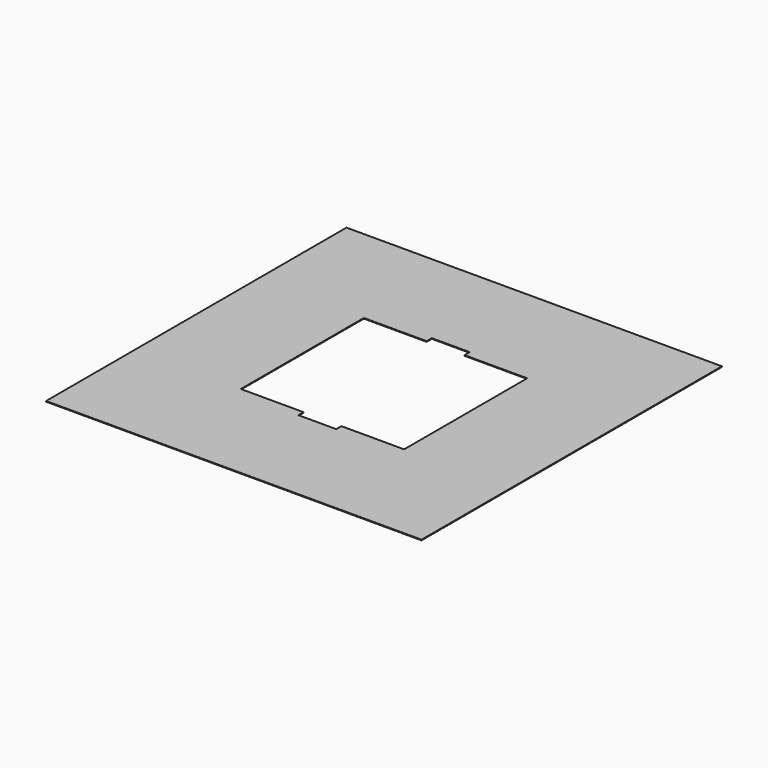
from build123d import *

# Parameters (mm, degrees)
F0_W     = 914.4
F0_H     = 914.4
F1_DEPTH = 0.79375


with BuildPart() as f1:
    # F0 (on Top) → F1 (new body, symmetric)
    with BuildSketch(Plane.XY):
        Rectangle(F0_W, F0_H)
        Polygon((45.974, 187.325), (198.882, 187.325), (198.882, -187.325), (45.974, -187.325), (45.974, -203.073), (-45.974, -203.073), (-45.974, -187.325), (-198.882, -187.325), (-198.882, 187.325), (-45.974, 187.325), (-45.974, 203.073), (45.974, 203.073), align=None, mode=Mode.SUBTRACT)
    extrude(amount=F1_DEPTH, both=True)


solid = f1.part
